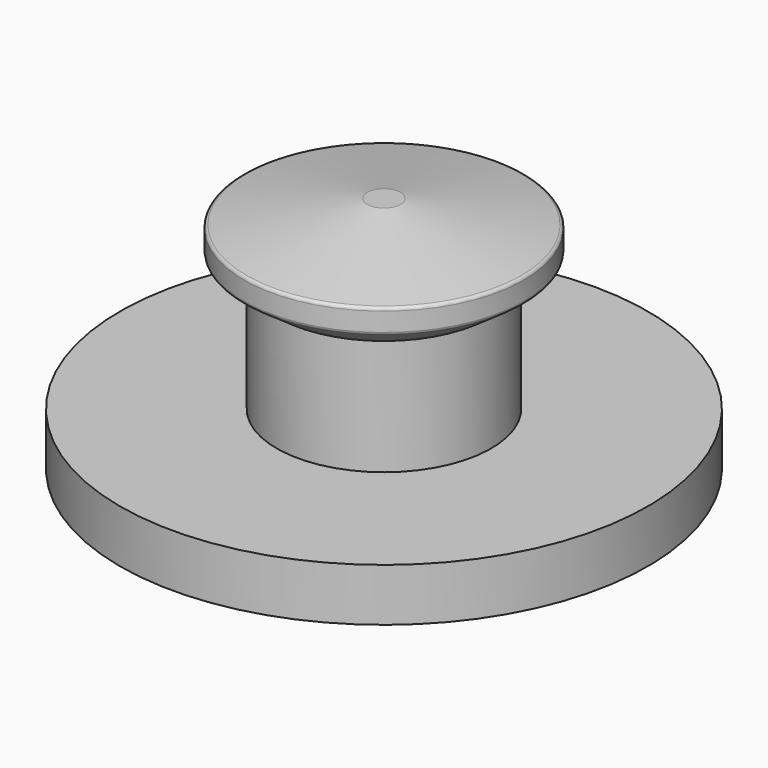
from build123d import *

# Parameters (mm, degrees)
F2_R = 0.1


with BuildPart() as f1:
    # F0 (on Right) → F1 (revolve)
    with BuildSketch(Plane.YZ):
        Polygon((0, 7.214135), (0, 1.6), (3.25, 1.6), (3.25, 5.1), (4.25, 5.8), (4.25, 6.5), (0.5, 7.214135), align=None)
        Polygon((0, 1.6), (0, 0), (8, 0), (8, 1.6), (3.25, 1.6), align=None)
    revolve(axis=Axis((0, 0, 3.607068), (0, 0, -1)))

    # F2
    f2_edges = [f1.edges().sort_by_distance(p)[0] for p in [
        (0, -4.25, 6.5),
        (0, -4.25, 5.8),
    ]]
    fillet(f2_edges, radius=F2_R)


solid = f1.part
